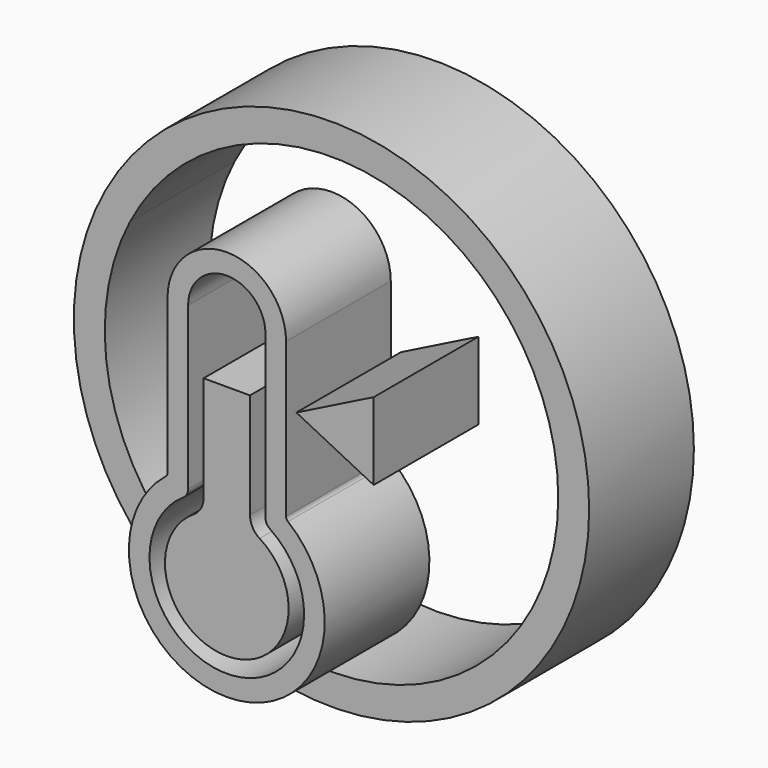
from build123d import *

# Parameters (mm, degrees)
F0_R     = 50
F1_DEPTH = 25.4
F2_R     = 1
F3_R     = 2
F4_R     = 1
F5_R     = 2
F8_DEPTH = 25.4
F9_R     = 1
F10_R    = 2
F11_R    = 4


with BuildPart() as f1:
    # F0 (on Front) → F1 (new body)
    with BuildSketch(Plane.XZ):
        Circle(F0_R)
        with BuildLine():
            ThreePointArc((-39.1111111111, 20.1574052808), (10.3708994574, 42.7603138955), (44, 0))
            ThreePointArc((44, 0), (-10.3708994574, -42.7603138955), (-39.1111111111, 20.1574052808))
        make_face(mode=Mode.SUBTRACT)
    extrude(amount=F1_DEPTH)


with BuildPart() as f1b:
    # F0 (on Front) → F1, piece 2 (new body)
    with BuildSketch(Plane.XZ):
        with BuildLine():
            ThreePointArc((0, 16.4924225025), (-16, 26.2462112512), (-32, 16.4924225025))
            Line((-32, 16.4924225025), (-30.2222222222, 15.5761768079))
            Line((-30.2222222222, 15.5761768079), (-34, 8.2462112512))
            ThreePointArc((-34, 8.2462112512), (-33.0849981905, 2.5802747153), (-30.4330181301, -2.5096238003))
            Line((-30.4330181301, -2.5096238003), (0, -43.3470204617))
            Line((0, -43.3470204617), (30.4330181301, -2.5096238003))
            ThreePointArc((30.4330181301, -2.5096238003), (25.5332732557, 23.5143709646), (0, 16.4924225025))
        make_face()
        with BuildLine():
            ThreePointArc((-28.829349449, -1.3145310168), (-31.9458736097, 6.9312531437), (-30.2222222222, 15.5761768079))
            ThreePointArc((-30.2222222222, 15.5761768079), (-12.2287638337, 23.7954163042), (0, 8.2462112512))
            ThreePointArc((0, 8.2462112512), (21.0363880319, 23.4328763095), (28.829349449, -1.3145310168))
            Line((28.829349449, -1.3145310168), (0, -40))
            Line((0, -40), (-28.829349449, -1.3145310168))
        make_face(mode=Mode.SUBTRACT)
        with BuildLine():
            Line((-30.2222222222, 15.5761768079), (-32, 16.4924225025))
            ThreePointArc((-32, 16.4924225025), (-33.4928556845, 12.4888519384), (-34, 8.2462112512))
            Line((-34, 8.2462112512), (-30.2222222222, 15.5761768079))
        make_face()
    extrude(amount=F1_DEPTH)

    # F2
    f2_edges = [f1b.edges().sort_by_distance(p)[0] for p in [
        (0, -12.7, 16.492423),
    ]]
    fillet(f2_edges, radius=F2_R)

    # F3
    f3_edges = [f1b.edges().sort_by_distance(p)[0] for p in [
        (0, -12.7, 8.246211),
    ]]
    fillet(f3_edges, radius=F3_R)

    # F4
    f4_edges = [f1b.edges().sort_by_distance(p)[0] for p in [
        (0, -12.7, -40),
    ]]
    fillet(f4_edges, radius=F4_R)

    # F5
    f5_edges = [f1b.edges().sort_by_distance(p)[0] for p in [
        (0, -12.7, -43.34702),
    ]]
    fillet(f5_edges, radius=F5_R)


with BuildPart() as f8:
    # F7 (on face) → F8 (new body)
    with BuildSketch(Plane.XZ.offset(25.4)):
        with BuildLine():
            ThreePointArc((11.5, 26.5), (0, 38), (-11.5, 26.5))
            Line((-11.5, 26.5), (-11.5, -3.8755165377))
            ThreePointArc((-11.5, -3.8755165377), (0, -38), (11.5, -3.8755165377))
            Line((11.5, -3.8755165377), (11.5, 26.5))
        make_face()
        with BuildLine():
            ThreePointArc((7.5, -6.0096189432), (0, -34), (-7.5, -6.0096189432))
            Line((-7.5, -6.0096189432), (-7.5, 26.5))
            ThreePointArc((-7.5, 26.5), (0, 34), (7.5, 26.5))
            Line((7.5, 26.5), (7.5, -6.0096189432))
        make_face(mode=Mode.SUBTRACT)
    extrude(amount=F8_DEPTH)

    # F9
    f9_edges = [f8.edges().sort_by_distance(p)[0] for p in [
        (11.5, -38.1, -3.875517),
        (-11.5, -38.1, -3.875517),
    ]]
    fillet(f9_edges, radius=F9_R)

    # F10
    f10_edges = [f8.edges().sort_by_distance(p)[0] for p in [
        (-7.5, -38.1, -6.009619),
        (7.5, -38.1, -6.009619),
    ]]
    fillet(f10_edges, radius=F10_R)


with BuildPart() as f8b:
    # F7 (on face) → F8, piece 2 (new body)
    with BuildSketch(Plane.XZ.offset(25.4)):
        Polygon((28.5, 22.5), (13.5, 15), (28.5, 7.5), align=None)
    extrude(amount=F8_DEPTH)


with BuildPart() as f8c:
    # F7 (on face) → F8, piece 3 (new body)
    with BuildSketch(Plane.XZ.offset(25.4)):
        with BuildLine():
            Line((4.5, 15), (-4.5, 15))
            Line((-4.5, 15), (-4.5, -7.8757022694))
            ThreePointArc((-4.5, -7.8757022694), (0, -31), (4.5, -7.8757022694))
            Line((4.5, -7.8757022694), (4.5, 15))
        make_face()
    extrude(amount=F8_DEPTH)

    # F11
    f11_edges = [f8c.edges().sort_by_distance(p)[0] for p in [
        (-4.5, -38.1, -7.875702),
        (4.5, -38.1, -7.875702),
    ]]
    fillet(f11_edges, radius=F11_R)


solid = Compound([f1.part, f8.part, f8b.part, f8c.part])
